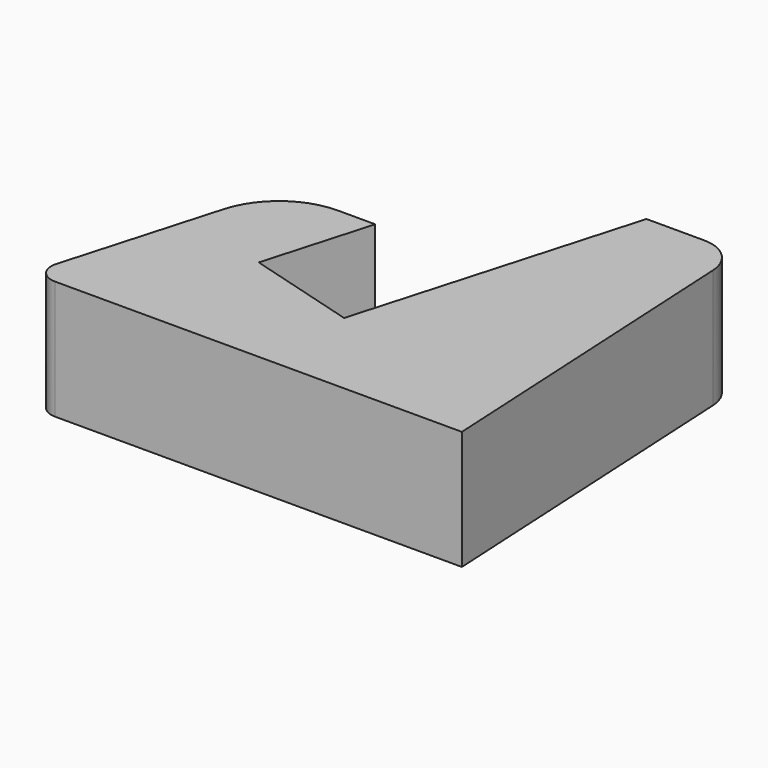
from build123d import *

# Parameters (mm, degrees)
F1_DEPTH = 6.4


with BuildPart() as f1:
    # F0 (on Top) → F1 (new body)
    with BuildSketch(Plane.XY):
        with BuildLine():
            Line((1.327045, 0), (23.223624, 0))
            Line((23.223624, 0), (22.276235, 18.077263))
            ThreePointArc((22.276235, 18.077263), (21.655685, 19.423339), (20.278976, 19.972591))
            Line((20.278976, 19.972591), (17.176905, 19.972591))
            Line((17.176905, 19.972591), (12.883583, 5))
            Line((12.883583, 5), (6.923761, 6.708952))
            Line((6.923761, 6.708952), (8.577585, 12.476522))
            Line((8.577585, 12.476522), (6.591801, 12.476522))
            ThreePointArc((6.591801, 12.476522), (4.184541, 11.671064), (2.746754, 9.579071))
            Line((2.746754, 9.579071), (0.365783, 1.275637))
            ThreePointArc((0.365783, 1.275637), (0.528409, 0.398185), (1.327045, 0))
        make_face()
    extrude(amount=F1_DEPTH)


solid = f1.part
